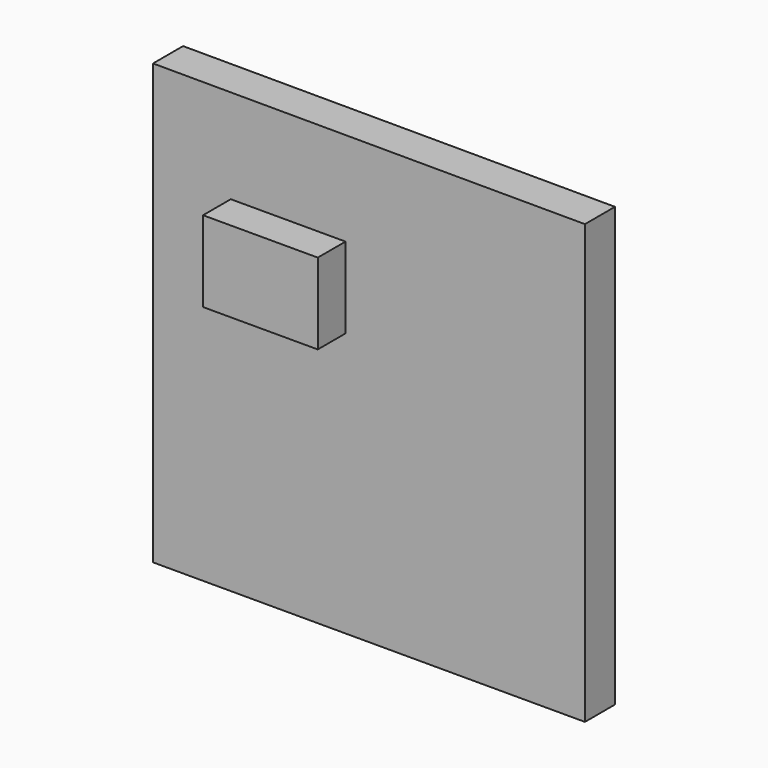
from build123d import *

# Parameters (mm, degrees)
F1_DEPTH = 13
F4_W     = 39.5263805985
F4_H     = 30.6198559701
F5_DEPTH = 12
F3_W     = 39.7066194564
F3_H     = 27.9853120446
F6_DEPTH = 25


with BuildPart() as f1:
    # F0 (on Front) → F1 (new body)
    with BuildSketch(Plane.XZ):
        Polygon((75.2189680934, 76.4205157757), (-74.2607861757, 76.778665185), (-74.2607861757, -75.2398595214), (75.2189680934, -75.2398595214), align=None)
    extrude(amount=-F1_DEPTH)

    # F4 (on face) → F5 (join)
    with BuildSketch(Plane.XZ):
        with Locations((24.8862691224, 28.5907592624)):
            Rectangle(F4_W, F4_H)
    extrude(amount=-F5_DEPTH)

    # F3 (on face) → F6 (join)
    with BuildSketch(Plane(origin=(0, 13, 0), x_dir=(-1, 0, 0), z_dir=(0, 1, 0))):
        with Locations((27.4936407804, 30.1694050431)):
            Rectangle(F3_W, F3_H)
    extrude(amount=-F6_DEPTH)


solid = f1.part
